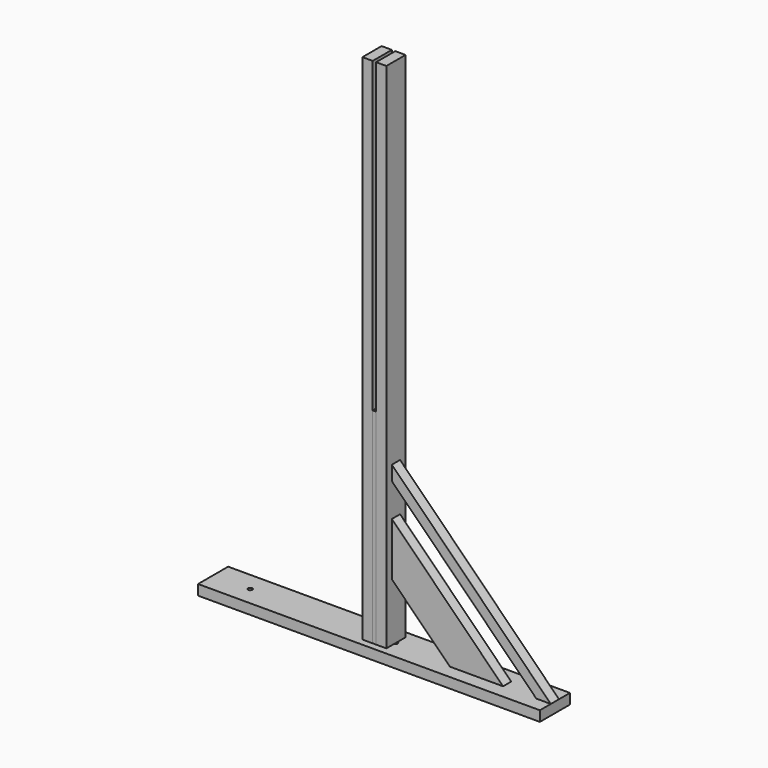
from build123d import *

# Parameters (mm, degrees)
F0_W      = 1270
F0_H      = 139.7
F1_DEPTH  = 38.1
F2_R      = 7.9375
F3_DEPTH  = 38.1
F4_W      = 12.7
F4_H      = 88.9
F5_DEPTH  = 762
F7_W      = 38.1
F7_H      = 88.9
F8_DEPTH  = 1905
F14_DEPTH = 19.05
F16_DEPTH = 19.05


with BuildPart() as f1:
    # F0 (on Top) → F1 (new body)
    with BuildSketch(Plane.XY):
        Rectangle(F0_W, F0_H)
    extrude(amount=F1_DEPTH)

    # F2 (on face) → F3 (cut, through all)
    with BuildSketch(Plane.XY.offset(38.1)):
        with Locations((-497.2431, 0)):
            Circle(F2_R)
        with Locations((43.5229, 0)):
            Circle(F2_R)
        with Locations((584.2889, 0)):
            Circle(F2_R)
    extrude(amount=-F3_DEPTH, mode=Mode.SUBTRACT)

    # F4 (on face) → F5 (join)
    with BuildSketch(Plane.XY.offset(38.1)):
        Rectangle(F4_W, F4_H)
    extrude(amount=F5_DEPTH)


with BuildPart() as f8:
    # F7 (on 3pt) → F8 (new body)
    with BuildSketch(Plane(origin=(0, 0, 38.1), x_dir=(1, 0, 0), z_dir=(0, 0, -1))):
        with Locations((25.4, 0)):
            Rectangle(F7_W, F7_H)
    extrude(amount=-F8_DEPTH)


with BuildPart() as f8b:
    # F7 (on 3pt) → F8, piece 2 (new body)
    with BuildSketch(Plane(origin=(0, 0, 38.1), x_dir=(1, 0, 0), z_dir=(0, 0, -1))):
        with Locations((-25.4, 0)):
            Rectangle(F7_W, F7_H)
    extrude(amount=-F8_DEPTH)


with BuildPart() as f14:
    # F13 (on 3pt) → F14 (new body, symmetric)
    with BuildSketch(Plane(origin=(0, 0, 0), x_dir=(-1, 0, 0), z_dir=(0, 1, 0))):
        Polygon((-581.1184632736, 38.1), (-44.45, 574.7684632736), (-44.45, 628.65), (-635, 38.1), align=None)
    extrude(amount=F14_DEPTH, both=True)


with BuildPart() as f16:
    # F15 (on 3pt) → F16 (new body, symmetric)
    with BuildSketch(Plane(origin=(0, 0, 0), x_dir=(-1, 0, 0), z_dir=(0, 1, 0))):
        Polygon((-44.45, 253.6261469057), (-44.45, 451.1917815692), (-457.5417815692, 38.1), (-259.9761469057, 38.1), align=None)
    extrude(amount=F16_DEPTH, both=True)


solid = Compound([f1.part, f8.part, f8b.part, f14.part, f16.part])
